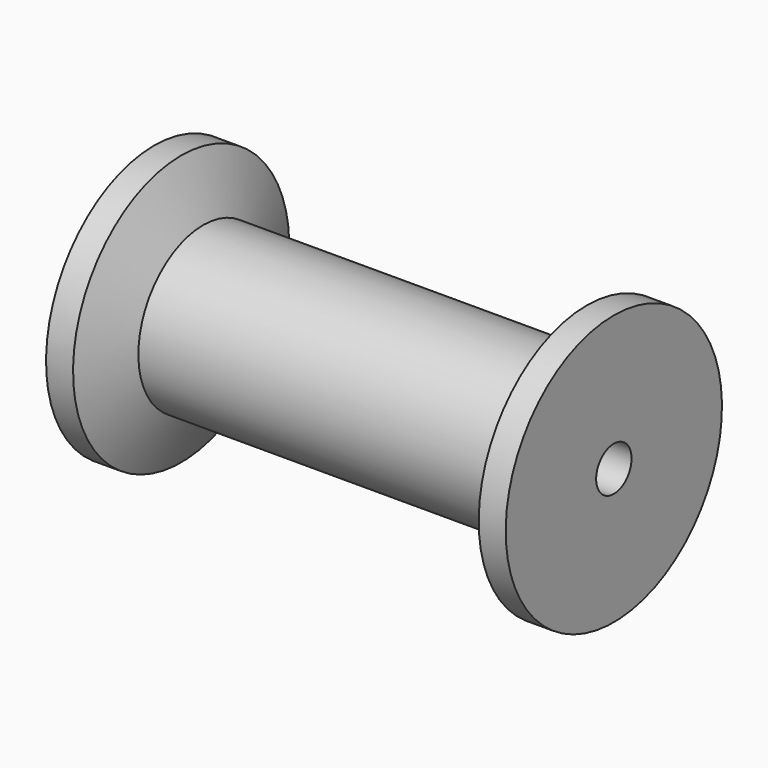
from build123d import *


with BuildPart() as f1:
    # F0 (on Front) → F1 (revolve)
    with BuildSketch(Plane.XZ):
        Polygon((0, 15.875), (0, 9.525), (5.7653019129, 9.525), (3.175, 15.875), align=None)
        Polygon((0, 9.525), (0, 2.6), (54, 2.6), (54, 9.525), (48.2346980871, 9.525), (5.7653019129, 9.525), align=None)
        Polygon((48.2346980871, 9.525), (54, 9.525), (54, 15.875), (50.825, 15.875), align=None)
    revolve(axis=Axis((27, 0, 0), (1, 0, 0)))


solid = f1.part
